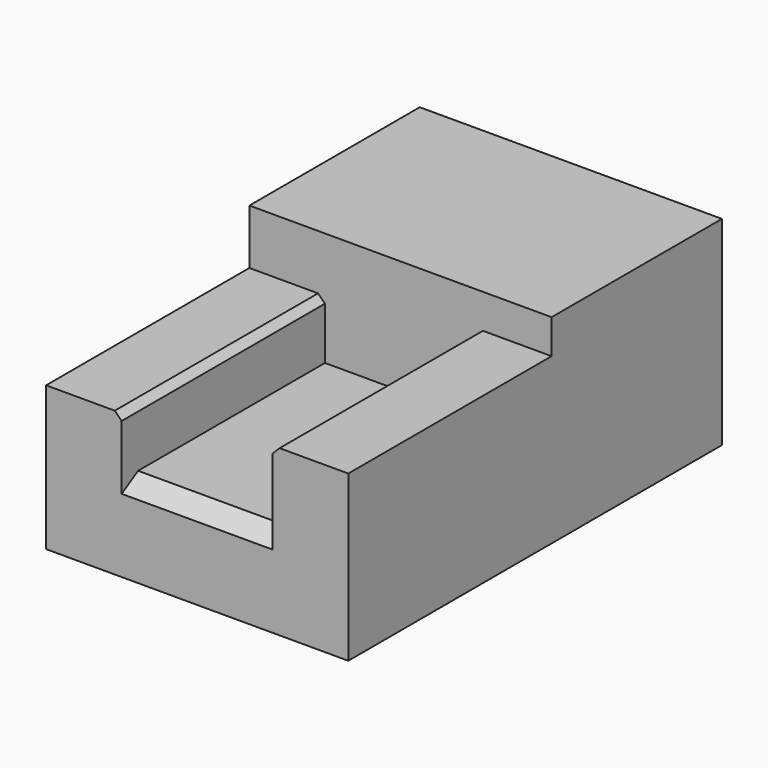
from build123d import *

# Parameters (mm, degrees)
F0_W     = 11
F0_H     = 1.5
F0_R     = 1.62
F0_R_2   = 2
F1_DEPTH = 15.5
F3_DEPTH = 18.5
F4_D     = 4
F4_DEPTH = 8
F4_TIP   = 1.2017212381
F5_DEPTH = 6
F6_SIZE2 = 0.8660254038
F6_SIZE  = 1.5


with BuildPart() as f1:
    # F0 (on Front) → F1 (new body)
    with BuildSketch(Plane.XZ):
        with Locations((-33.422443, -0.3)):
            Rectangle(F0_W, F0_H)
        with BuildLine():
            ThreePointArc((-42.3589346731, 3.25), (-41.3596463712, 0.9831808692), (-38.922443, 1.4271243445))
            Line((-38.922443, 1.4271243445), (-38.922443, 2.75))
            Line((-38.922443, 2.75), (-39.422443, 3.25))
            Line((-39.422443, 3.25), (-42.3589346731, 3.25))
        make_face()
        with BuildLine():
            Line((-38.922443, 1.4271243445), (-38.922443, 0.45))
            Line((-38.922443, 0.45), (-27.922443, 0.45))
            Line((-27.922443, 0.45), (-27.922443, 1.4271243445))
            Line((-27.922443, 1.4271243445), (-27.922443, 2.1381176584))
            ThreePointArc((-27.922443, 2.1381176584), (-28.042443, 2.75), (-27.922443, 3.3618823416))
            Line((-27.922443, 3.3618823416), (-27.922443, 4.25))
            Line((-27.922443, 4.25), (-27.422443, 4.75))
            Line((-27.422443, 4.75), (-26.4224430007, 4.75))
            Line((-26.4224430007, 4.75), (-22.422443, 4.75))
            Line((-22.422443, 4.75), (-22.422443, 7.25))
            Line((-22.422443, 7.25), (-44.422443, 7.25))
            Line((-44.422443, 7.25), (-44.422443, 3.25))
            Line((-44.422443, 3.25), (-42.3589346731, 3.25))
            ThreePointArc((-42.3589346731, 3.25), (-40.170434415, 4.7340593925), (-38.422443, 2.75))
            ThreePointArc((-38.422443, 2.75), (-38.5516143066, 2.0428932188), (-38.922443, 1.4271243445))
        make_face()
        with BuildLine():
            Line((-38.922443, 2.75), (-38.922443, 1.4271243445))
            ThreePointArc((-38.922443, 1.4271243445), (-38.5516143066, 2.0428932188), (-38.422443, 2.75))
            ThreePointArc((-38.422443, 2.75), (-40.170434415, 4.7340593925), (-42.3589346731, 3.25))
            Line((-42.3589346731, 3.25), (-39.422443, 3.25))
            Line((-39.422443, 3.25), (-38.922443, 2.75))
        make_face()
        with BuildLine():
            Line((-27.922443, 3.3618823416), (-27.922443, 2.1381176584))
            ThreePointArc((-27.922443, 2.1381176584), (-26.1106738546, 1.1602830441), (-24.802443, 2.75))
            ThreePointArc((-24.802443, 2.75), (-26.1106738546, 4.3397169559), (-27.922443, 3.3618823416))
        make_face()
        with BuildLine():
            Line((-27.922443, -1.05), (-38.922443, -1.05))
            Line((-38.922443, -1.05), (-38.922443, 0.45))
            Line((-38.922443, 0.45), (-38.922443, 1.4271243445))
            ThreePointArc((-38.922443, 1.4271243445), (-41.3596463712, 0.9831808692), (-42.3589346731, 3.25))
            Line((-42.3589346731, 3.25), (-44.422443, 3.25))
            Line((-44.422443, 3.25), (-44.422443, -7.25))
            Line((-44.422443, -7.25), (-22.422443, -7.25))
            Line((-22.422443, -7.25), (-22.422443, 4.75))
            Line((-22.422443, 4.75), (-26.4224430007, 4.75))
            ThreePointArc((-26.4224430007, 4.75), (-24.5995673443, 1.9271243448), (-27.922443, 1.4271243445))
            Line((-27.922443, 1.4271243445), (-27.922443, 0.45))
            Line((-27.922443, 0.45), (-27.922443, -1.05))
        make_face()
        with Locations((-40.422443, -3.25)):
            Circle(F0_R, mode=Mode.SUBTRACT)
        with Locations((-26.422443, -3.25)):
            Circle(F0_R_2, mode=Mode.SUBTRACT)
        with Locations((-26.422443, -3.25)):
            Circle(F0_R_2)
        with Locations((-40.422443, -3.25)):
            Circle(F0_R)
        with BuildLine():
            Line((-27.922443, 2.1381176584), (-27.922443, 1.4271243445))
            ThreePointArc((-27.922443, 1.4271243445), (-24.5995673443, 1.9271243448), (-26.4224430007, 4.75))
            Line((-26.4224430007, 4.75), (-27.422443, 4.75))
            Line((-27.422443, 4.75), (-27.922443, 4.25))
            Line((-27.922443, 4.25), (-27.922443, 3.3618823416))
            ThreePointArc((-27.922443, 3.3618823416), (-26.1106738546, 4.3397169559), (-24.802443, 2.75))
            ThreePointArc((-24.802443, 2.75), (-26.1106738546, 1.1602830441), (-27.922443, 2.1381176584))
        make_face()
        with BuildLine():
            ThreePointArc((-27.922443, 3.3618823416), (-28.042443, 2.75), (-27.922443, 2.1381176584))
            Line((-27.922443, 2.1381176584), (-27.922443, 3.3618823416))
        make_face()
    extrude(amount=F1_DEPTH)

    # F2 (on face) → F3 (join)
    with BuildSketch(Plane.XZ.offset(15.5)):
        Polygon((-27.922443, -1.05), (-38.922443, -1.05), (-38.922443, 2.75), (-39.422443, 3.25), (-44.422443, 3.25), (-44.422443, -7.25), (-22.422443, -7.25), (-22.422443, 4.75), (-27.422443, 4.75), (-27.922443, 4.25), align=None)
    extrude(amount=F3_DEPTH)

    # F4
    with Locations(Plane(origin=(0, 0, 0), x_dir=(1, 0, 0), z_dir=(0, 1, 0))):
        with Locations((-40.422443, 3.25), (-26.422443, -2.75)):
            Hole(F4_D / 2, depth=F4_DEPTH)
            with Locations((0, 0, -(F4_DEPTH + F4_TIP / 2))):  # 118° drill point
                Cone(0, F4_D / 2, F4_TIP, mode=Mode.SUBTRACT)

    # F0 (on Front) → F5 (cut)
    with BuildSketch(Plane.XZ):
        with BuildLine():
            Line((-38.922443, 2.75), (-38.922443, 1.4271243445))
            ThreePointArc((-38.922443, 1.4271243445), (-38.5516143066, 2.0428932188), (-38.422443, 2.75))
            ThreePointArc((-38.422443, 2.75), (-40.170434415, 4.7340593925), (-42.3589346731, 3.25))
            Line((-42.3589346731, 3.25), (-39.422443, 3.25))
            Line((-39.422443, 3.25), (-38.922443, 2.75))
        make_face()
        with BuildLine():
            ThreePointArc((-42.3589346731, 3.25), (-41.3596463712, 0.9831808692), (-38.922443, 1.4271243445))
            Line((-38.922443, 1.4271243445), (-38.922443, 2.75))
            Line((-38.922443, 2.75), (-39.422443, 3.25))
            Line((-39.422443, 3.25), (-42.3589346731, 3.25))
        make_face()
        with Locations((-26.422443, -3.25)):
            Circle(F0_R_2)
    extrude(amount=F5_DEPTH, mode=Mode.SUBTRACT)

    # F6
    f6_edges = [f1.edges().sort_by_distance(p)[0] for p in [
        (-33.422443, -34, -1.05),
    ]]
    f6_side = f1.faces().sort_by_distance((-33.422443, -24.75, -1.05))[0]
    chamfer(f6_edges, length=F6_SIZE, length2=F6_SIZE2, reference=f6_side)


solid = f1.part
